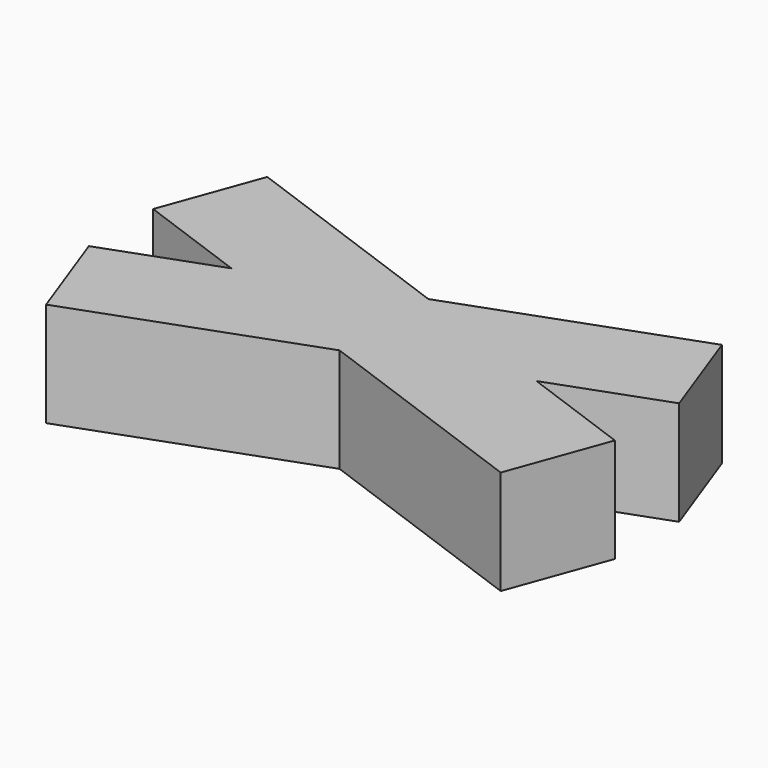
from build123d import *

# Parameters (mm, degrees)
BOX002_W               = 10
BOX002_H               = 2
BOX002_DEPTH           = 2
BOX002_PLACEMENT_ANGLE = 20
BOX001_W               = 10
BOX001_H               = 2
BOX001_DEPTH           = 2
BOX001_PLACEMENT_ANGLE = 20


with BuildPart() as cub002:
    # Box002 → Box002 (new body)
    with BuildSketch(Plane.XY):
        with Locations((5, 1)):
            Rectangle(BOX002_W, BOX002_H)
    extrude(amount=BOX002_DEPTH)


with BuildPart() as cub002_1:
    # Box002 placement: moved
    add(cub002.part.moved(Location((0.643557, -1.649793, 0))).rotate(Axis((0.643557, -1.649793, 0), (0, 0, 1)), BOX002_PLACEMENT_ANGLE))


with BuildPart() as fusion001:
    # Box001 → Box001 (new body)
    with BuildSketch(Plane.XY):
        with Locations((5, 1)):
            Rectangle(BOX001_W, BOX001_H)
    extrude(amount=BOX001_DEPTH)


with BuildPart() as fusion001_1:
    # Box001 placement: moved
    add(fusion001.part.moved(Location((-0.04, 1.77, 0))).rotate(Axis((-0.04, 1.77, 0), (0, 0, -1)), BOX001_PLACEMENT_ANGLE))

    # Fusion: union Cub002
    add(cub002_1.part)


with BuildPart() as fusion001_2:
    # Fusion001 placement: moved
    add(fusion001_1.part.moved(Location((-5, -1, 0))))


solid = fusion001_2.part
